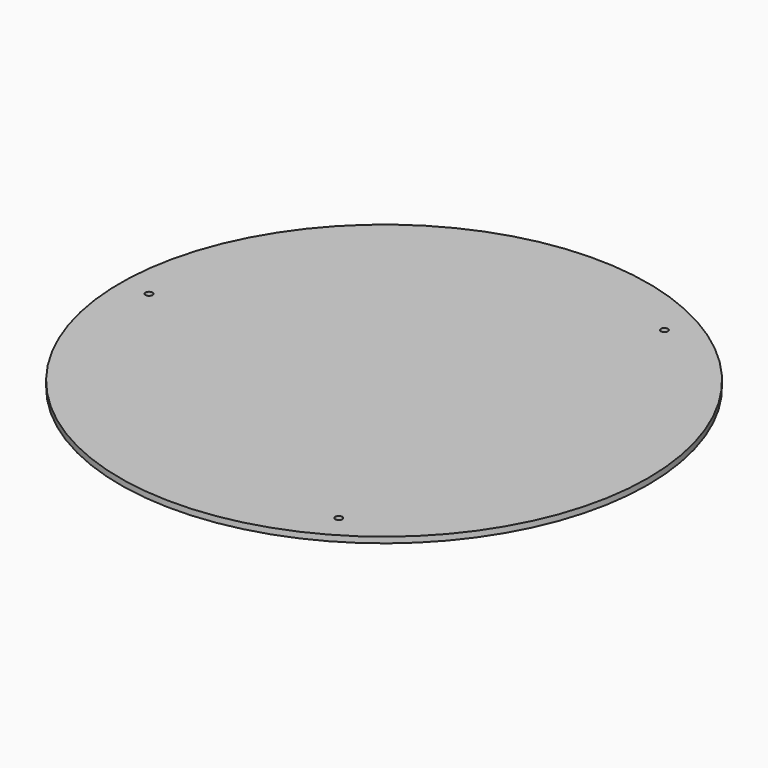
from build123d import *

# Parameters (mm, degrees)
F0_R     = 225
F1_DEPTH = 5
F2_D     = 6


with BuildPart() as f1:
    # F0 (on Top) → F1 (new body)
    with BuildSketch(Plane.XY):
        Circle(F0_R)
        Polygon((-200.340543, 0), (100.170272, 173.5), (100.170272, -173.5), align=None, mode=Mode.SUBTRACT)
        Polygon((100.170272, -173.5), (100.170272, 173.5), (-200.340543, 0), align=None)
    extrude(amount=F1_DEPTH)

    # F2 (through all)
    with Locations(Plane(origin=(0, 0, 0), x_dir=(1, 0, 0), z_dir=(0, 0, -1))):
        with Locations((100.170272, 173.5), (-200.340543, 0), (100.170272, -173.5)):
            Hole(F2_D / 2)


solid = f1.part
